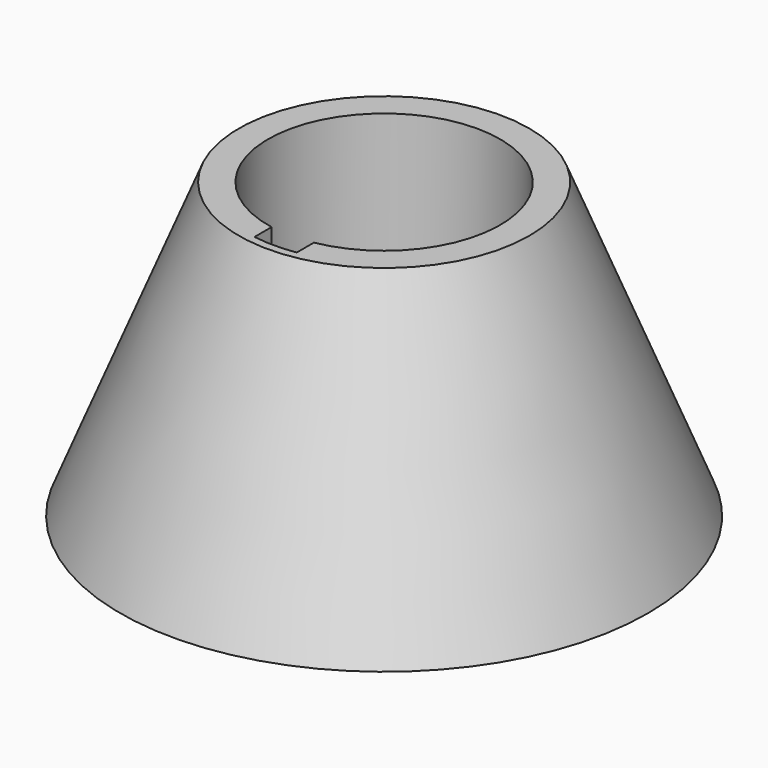
from build123d import *

# Parameters (mm, degrees)
F3_DEPTH = 27.815516


with BuildPart() as f1:
    # F0 (on Front) → F1 (revolve)
    with BuildSketch(Plane.XZ):
        Polygon((11, 27.815516), (11, 0), (25, 0), (13.761802, 27.815516), align=None)
    revolve(axis=Axis((0, 0, 28.414933), (0, 0, 1)))

    # F2 (on face) → F3 (cut, through all)
    with BuildSketch(Plane(origin=(0, 0, 0), x_dir=(1, 0, 0), z_dir=(0, 0, -1))):
        with BuildLine():
            Line((2, 10.816654), (2, 12.845233))
            ThreePointArc((2, 12.845233), (0, 13), (-2, 12.845233))
            Line((-2, 12.845233), (-2, 10.816654))
            ThreePointArc((-2, 10.816654), (0, 11), (2, 10.816654))
        make_face()
    extrude(amount=-F3_DEPTH, mode=Mode.SUBTRACT)


solid = f1.part
